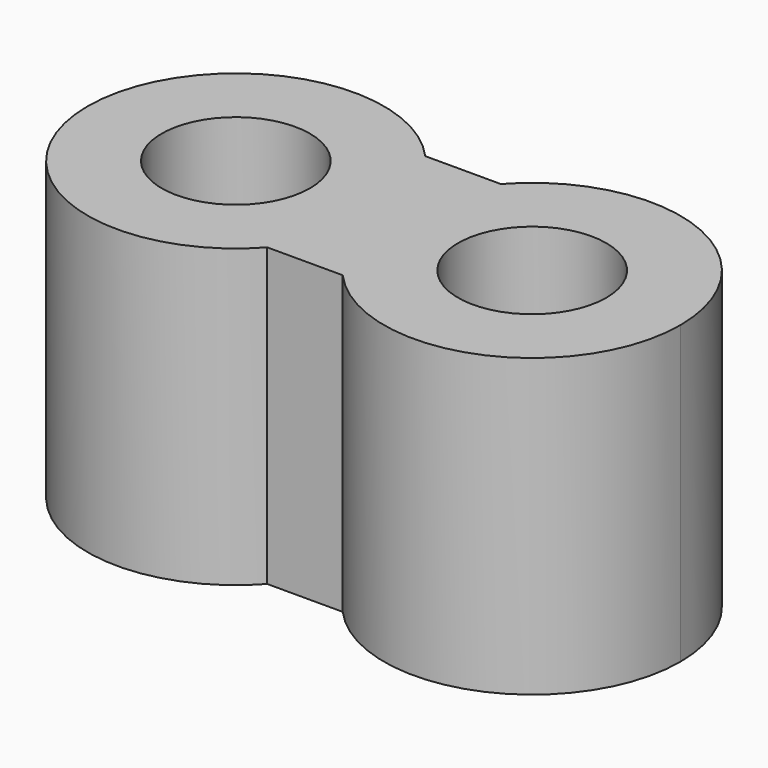
from build123d import *

# Parameters (mm, degrees)
F1_DEPTH = 12
F2_R     = 3
F3_DEPTH = 12.001


with BuildPart() as f1:
    # F0 (on Top) → F1 (new body)
    with BuildSketch(Plane.XY):
        with BuildLine():
            ThreePointArc((-1.527864, -4), (-0.394966, -2.140933), (0, 0))
            ThreePointArc((0, 0), (-0.394966, 2.140933), (-1.527864, 4))
            ThreePointArc((-1.527864, 4), (-12, 0), (-1.527864, -4))
        make_face()
        with BuildLine():
            ThreePointArc((1.527864, -4), (0.394966, -2.140933), (0, 0))
            ThreePointArc((0, 0), (-0.394966, -2.140933), (-1.527864, -4))
            Line((-1.527864, -4), (0, -4))
            Line((0, -4), (1.527864, -4))
        make_face()
        with BuildLine():
            ThreePointArc((-1.527864, 4), (-0.394966, 2.140933), (0, 0))
            ThreePointArc((0, 0), (0.394966, 2.140933), (1.527864, 4))
            Line((1.527864, 4), (-1.527864, 4))
        make_face()
        with BuildLine():
            ThreePointArc((1.527864, 4), (0.394966, 2.140933), (0, 0))
            ThreePointArc((0, 0), (0.394966, -2.140933), (1.527864, -4))
            ThreePointArc((1.527864, -4), (8.140933, -5.605034), (12, 0))
            ThreePointArc((12, 0), (8.140933, 5.605034), (1.527864, 4))
        make_face()
    extrude(amount=F1_DEPTH)

    # F2 (on face) → F3 (cut, through all)
    with BuildSketch(Plane.XY.offset(12)):
        with Locations((-6, 0)):
            Circle(F2_R)
        with Locations((6, 0)):
            Circle(F2_R)
    extrude(amount=-F3_DEPTH, mode=Mode.SUBTRACT)


solid = f1.part
